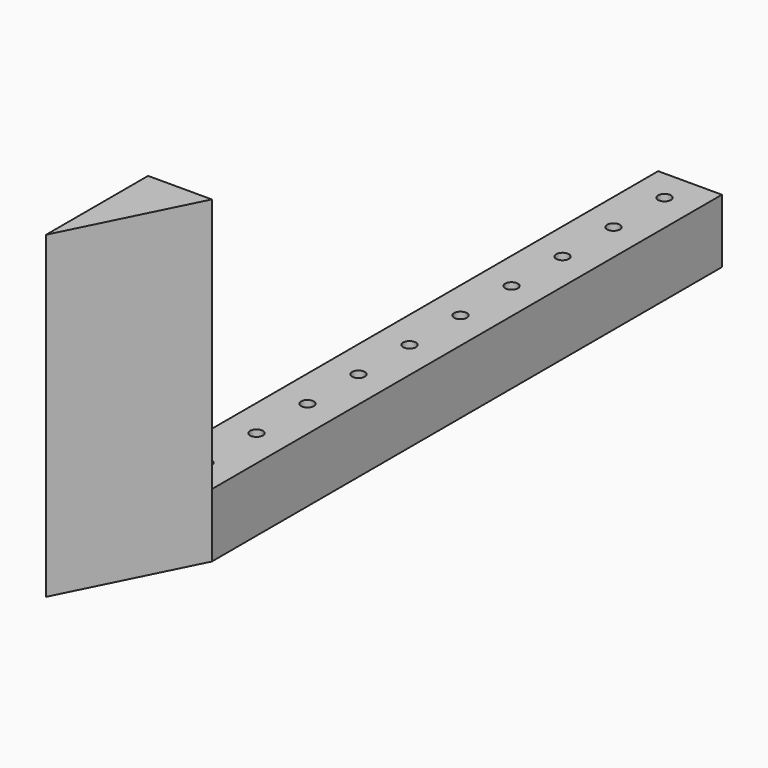
from build123d import *

# Parameters (mm, degrees)
F0_W     = 25.4
F0_H     = 254
F1_DEPTH = 25.4
F2_DEPTH = 127
F4_D     = 5.1054


with BuildPart() as f1:
    # F0 (on Top) → F1 (new body)
    with BuildSketch(Plane.XY):
        with Locations((-43.66958, 89.766972)):
            Rectangle(F0_W, F0_H)
    extrude(amount=F1_DEPTH)

    # F0 (on Top) → F2 (join)
    with BuildSketch(Plane.XY):
        Polygon((-30.96958, -37.233028), (-56.36958, -37.233028), (-56.36958, -88.033028), align=None)
    extrude(amount=F2_DEPTH)

    # F4 (through all)
    with Locations(Plane.XY.offset(25.4)):
        with Locations((-43.66958, 204.066972), (-43.66958, 153.266972), (-43.66958, 178.666972), (-43.66958, 127.866972), (-43.66958, 102.466972), (-43.66958, 77.066972), (-43.66958, 0.866972), (-43.66958, 51.666972), (-43.66958, 26.266972), (-43.66958, -24.533028)):
            Hole(F4_D / 2)


solid = f1.part
